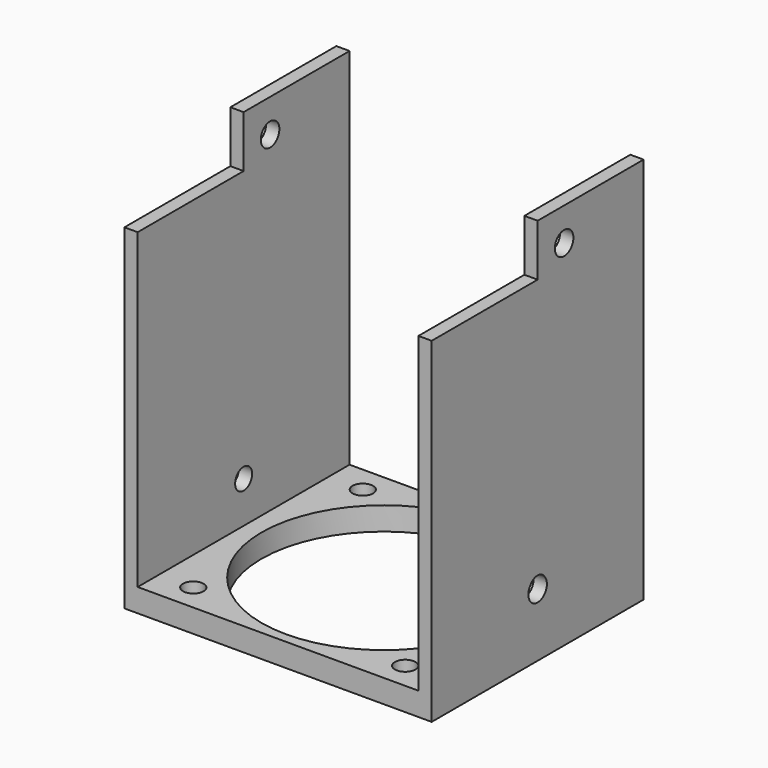
from build123d import *

# Parameters (mm, degrees)
F0_W      = 42.4
F0_H      = 40
F0_R      = 1.55
F0_R_2    = 18.5
F0_W_2    = 1.3
F1_DEPTH  = 3.5
F2_W      = 1.3
F2_H      = 40
F3_DEPTH  = 55
F6_D      = 3.5
F6_DEPTH  = 43.701
F7_DEPTH  = 0.7
F8_DEPTH  = 0.7
F9_W      = 20
F9_H      = 7.8327696025
F10_DEPTH = 60
F11_D     = 3.5
F12_R     = 1.6
F13_DEPTH = 60


with BuildPart() as f1:
    # F0 (on Top) → F1 (new body)
    with BuildSketch(Plane.XY):
        with Locations((9.9029783159, 0)):
            Rectangle(F0_W, F0_H)
        with Locations((-6.0970216841, -16)):
            Circle(F0_R, mode=Mode.SUBTRACT)
        with Locations((25.9029783159, -16)):
            Circle(F0_R, mode=Mode.SUBTRACT)
        with Locations((-6.0970216841, 16)):
            Circle(F0_R, mode=Mode.SUBTRACT)
        with Locations((9.9029783159, 0)):
            Circle(F0_R_2, mode=Mode.SUBTRACT)
        with Locations((25.9029783159, 16)):
            Circle(F0_R, mode=Mode.SUBTRACT)
        with Locations((-11.9470216841, 0)):
            Rectangle(F0_W_2, F0_H)
        with Locations((31.7529783159, 0)):
            Rectangle(F0_W_2, F0_H)
    extrude(amount=-F1_DEPTH)

    # F2 (on face) → F3 (join)
    with BuildSketch(Plane.XY):
        with Locations((-11.9470216841, 0)):
            Rectangle(F2_W, F2_H)
        with Locations((31.7529783159, 0)):
            Rectangle(F2_W, F2_H)
    extrude(amount=F3_DEPTH)

    # F6 (through all, one way)
    with BuildSketch(Plane(origin=(-11.2970216841, 0, 0), x_dir=(0, 1, 0), z_dir=(-1, 0, 0))):
        with Locations((5, -50), (-14, -50), (0, -6)):
            Circle(F6_D / 2)
    extrude(amount=-F6_DEPTH, mode=Mode.SUBTRACT)

    # F7 (add): a face of the model
    f7_faces = [f1.faces().sort_by_distance(p)[0] for p in [
        (32.4029783159, 0.0374664773, 25.6303154199),
    ]]
    extrude(f7_faces, amount=F7_DEPTH)

    # F8 (add): a face of the model
    f8_faces = [f1.faces().sort_by_distance(p)[0] for p in [
        (-12.5970216841, 0, 25.75),
    ]]
    extrude(f8_faces, amount=F8_DEPTH)

    # F9 (on face) → F10 (cut)
    with BuildSketch(Plane(origin=(-13.2970216841, 0, 0), x_dir=(0, -1, 0), z_dir=(-1, 0, 0))):
        with Locations((10, 51.0836151987)):
            Rectangle(F9_W, F9_H)
    extrude(amount=-F10_DEPTH, mode=Mode.SUBTRACT)

    # F11 (through all)
    with Locations(Plane(origin=(31.1029783159, 0, 0), x_dir=(0, -1, 0), z_dir=(1, 0, 0))):
        with Locations((-5, -50)):
            Hole(F11_D / 2)

    # F12 (on face) → F13 (cut)
    with BuildSketch(Plane(origin=(-13.2970216841, 0, 0), x_dir=(0, -1, 0), z_dir=(-1, 0, 0))):
        with Locations((0, 6.2575037591)):
            Circle(F12_R)
    extrude(amount=-F13_DEPTH, mode=Mode.SUBTRACT)


solid = f1.part
